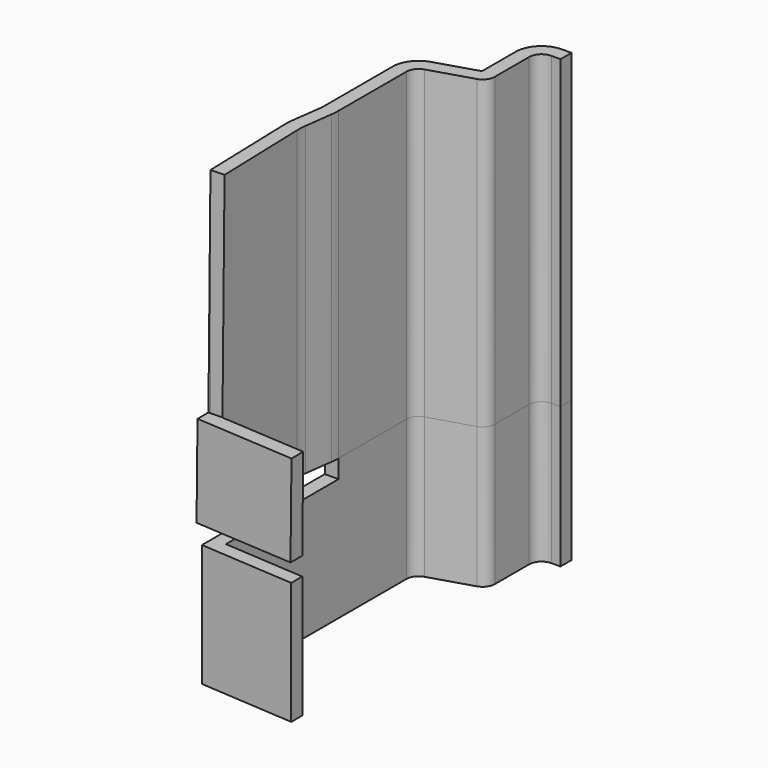
from build123d import *

# Parameters (mm, degrees)
F5_DEPTH  = 3
F6_W      = 2.25
F6_H      = 23
F7_DEPTH  = 20
F13_DEPTH = 35


with BuildPart() as f3:
    # F2 (on offset) → F3 section 0
    with BuildSketch(Plane.XY.offset(-50)):
        with BuildLine():
            Line((-3.5000038791, 20.4748884357), (-3.5000038791, 27.4999761514))
            ThreePointArc((-3.5000038791, 27.4999761514), (-2.9142174415, 28.9141897138), (-1.5000038791, 29.4999761514))
            Line((-1.5000038791, 29.4999761514), (-3.8791e-06, 29.4999761514))
            Line((-3.8791e-06, 29.4999761514), (-3.8791e-06, 31.7499761514))
            Line((-3.8791e-06, 31.7499761514), (-1.5000038791, 31.7499761514))
            ThreePointArc((-1.5000038791, 31.7499761514), (-4.5052076991, 30.5051799715), (-5.7500038791, 27.4999761514))
            Line((-5.7500038791, 27.4999761514), (-5.7500038791, 20.6592524712))
            Line((-5.7500038791, 20.6592524712), (-12.4557502015, 18.5853103096))
            ThreePointArc((-12.4557502015, 18.5853103096), (-14.6204878997, 17.0475208172), (-15.4500038791, 14.5250638671))
            Line((-15.4500038791, 14.5250638671), (-15.4500038791, 0.6637059035))
            ThreePointArc((-15.4500038791, 0.6637059035), (-15.4670184988, 0.1504446566), (-15.5179876488, -0.3605629272))
            Line((-15.5179876488, -0.3605629272), (-16.1221071747, -4.8914593715))
            ThreePointArc((-16.1221071747, -4.8914593715), (-16.2137025969, -5.8872580453), (-16.223770689, -6.887209721))
            Line((-16.223770689, -6.887209721), (-16.223770689, -22.3192218691))
            Line((-16.223770689, -22.3192218691), (-13.9748350221, -22.3192218691))
            Line((-13.9748350221, -22.3192218691), (-13.9748350221, -6.8180117005))
            ThreePointArc((-13.9748350221, -6.8180117005), (-13.9666161714, -6.0017246183), (-13.8918443982, -5.1888277417))
            Line((-13.8918443982, -5.1888277417), (-13.2877248723, -0.6579312974))
            ThreePointArc((-13.2877248723, -0.6579312974), (-13.2219582271, 0.0014333268), (-13.2000038791, 0.6637059035))
            Line((-13.2000038791, 0.6637059035), (-13.2000038791, 14.5250638671))
            ThreePointArc((-13.2000038791, 14.5250638671), (-12.8096434182, 15.7121024319), (-11.790943325, 16.4357680754))
            Line((-11.790943325, 16.4357680754), (-4.9090644333, 18.5641842274))
            ThreePointArc((-4.9090644333, 18.5641842274), (-3.89036434, 19.2878498709), (-3.5000038791, 20.4748884357))
        make_face()
    # F0 (on Top) → F3 section 1
    with BuildSketch(Plane.XY):
        with BuildLine():
            Line((-3.5, 20.4749122843), (-3.5, 27.5))
            ThreePointArc((-3.5, 27.5), (-2.9142135624, 28.9142135624), (-1.5, 29.5))
            Line((-1.5, 29.5), (0, 29.5))
            Line((0, 29.5), (0, 31.75))
            Line((0, 31.75), (-1.5, 31.75))
            ThreePointArc((-1.5, 31.75), (-4.50520382, 30.50520382), (-5.75, 27.5))
            Line((-5.75, 27.5), (-5.75, 20.6592763198))
            Line((-5.75, 20.6592763198), (-12.4557463224, 18.5853341582))
            ThreePointArc((-12.4557463224, 18.5853341582), (-14.6204840206, 17.0475446658), (-15.45, 14.5250877157))
            Line((-15.45, 14.5250877157), (-15.45, 0.6637297521))
            ThreePointArc((-15.45, 0.6637297521), (-15.4670146197, 0.1504685052), (-15.5179837697, -0.3605390786))
            Line((-15.5179837697, -0.3605390786), (-16.1221032956, -4.8914355229))
            ThreePointArc((-16.1221032956, -4.8914355229), (-16.2136987178, -5.8872341967), (-16.2237668099, -6.8871858724))
            Line((-16.2237668099, -6.8871858724), (-15.7489356669, -22.3191980205))
            Line((-15.7489356669, -22.3191980205), (-13.5, -22.25))
            Line((-13.5, -22.25), (-13.974831143, -6.8179878519))
            ThreePointArc((-13.974831143, -6.8179878519), (-13.9666122923, -6.0017007697), (-13.8918405191, -5.1888038931))
            Line((-13.8918405191, -5.1888038931), (-13.2877209932, -0.6579074488))
            ThreePointArc((-13.2877209932, -0.6579074488), (-13.221954348, 0.0014571754), (-13.2, 0.6637297521))
            Line((-13.2, 0.6637297521), (-13.2, 14.5250877157))
            ThreePointArc((-13.2, 14.5250877157), (-12.8096395391, 15.7121262805), (-11.7909394458, 16.435791924))
            Line((-11.7909394458, 16.435791924), (-4.9090605542, 18.564208076))
            ThreePointArc((-4.9090605542, 18.564208076), (-3.8903604609, 19.2878737195), (-3.5, 20.4749122843))
        make_face()
    loft()

    # F4 (on face) → F5 (join)
    with BuildSketch(Plane(origin=(0, 0, -50), x_dir=(1, 0, 0), z_dir=(0, 0, -1))):
        with BuildLine():
            Line((-13.2000038791, -0.6637059035), (-15.4500038791, -0.6637059035))
            Line((-15.4500038791, -0.6637059035), (-15.4500038791, -14.5250638671))
            ThreePointArc((-15.4500038791, -14.5250638671), (-14.6204878997, -17.0475208172), (-12.4557502015, -18.5853103096))
            Line((-12.4557502015, -18.5853103096), (-5.7500038791, -20.6592524712))
            Line((-5.7500038791, -20.6592524712), (-5.7500038791, -27.4999761514))
            ThreePointArc((-5.7500038791, -27.4999761514), (-4.5052076991, -30.5051799715), (-1.5000038791, -31.7499761514))
            Line((-1.5000038791, -31.7499761514), (-3.8791e-06, -31.7499761514))
            Line((-3.8791e-06, -31.7499761514), (-3.8791e-06, -29.4999761514))
            Line((-3.8791e-06, -29.4999761514), (-1.5000038791, -29.4999761514))
            ThreePointArc((-1.5000038791, -29.4999761514), (-2.9142174415, -28.9141897138), (-3.5000038791, -27.4999761514))
            Line((-3.5000038791, -27.4999761514), (-3.5000038791, -20.4748884357))
            ThreePointArc((-3.5000038791, -20.4748884357), (-3.89036434, -19.2878498709), (-4.9090644333, -18.5641842274))
            Line((-4.9090644333, -18.5641842274), (-11.790943325, -16.4357680754))
            ThreePointArc((-11.790943325, -16.4357680754), (-12.8096434182, -15.7121024319), (-13.2000038791, -14.5250638671))
            Line((-13.2000038791, -14.5250638671), (-13.2000038791, -0.6637059035))
        make_face()
    extrude(amount=F5_DEPTH)

    # F6 (on face) → F7 (join)
    with BuildSketch(Plane(origin=(0, 0, -53), x_dir=(1, 0, 0), z_dir=(0, 0, -1))):
        with BuildLine():
            Line((-13.2000038791, -14.5250638671), (-13.2000038791, -0.6637059035))
            Line((-13.2000038791, -0.6637059035), (-15.4500038791, -0.6637059035))
            Line((-15.4500038791, -0.6637059035), (-15.4500038791, -14.5250638671))
            ThreePointArc((-15.4500038791, -14.5250638671), (-14.6204878997, -17.0475208172), (-12.4557502015, -18.5853103096))
            Line((-12.4557502015, -18.5853103096), (-5.7500038791, -20.6592524712))
            Line((-5.7500038791, -20.6592524712), (-5.7500038791, -27.4999761514))
            ThreePointArc((-5.7500038791, -27.4999761514), (-4.5052076991, -30.5051799715), (-1.5000038791, -31.7499761514))
            Line((-1.5000038791, -31.7499761514), (-3.8791e-06, -31.7499761514))
            Line((-3.8791e-06, -31.7499761514), (-3.8791e-06, -29.4999761514))
            Line((-3.8791e-06, -29.4999761514), (-1.5000038791, -29.4999761514))
            ThreePointArc((-1.5000038791, -29.4999761514), (-2.9142174415, -28.9141897138), (-3.5000038791, -27.4999761514))
            Line((-3.5000038791, -27.4999761514), (-3.5000038791, -20.4748884357))
            ThreePointArc((-3.5000038791, -20.4748884357), (-3.89036434, -19.2878498709), (-4.9090644333, -18.5641842274))
            Line((-4.9090644333, -18.5641842274), (-11.790943325, -16.4357680754))
            ThreePointArc((-11.790943325, -16.4357680754), (-12.8096434182, -15.7121024319), (-13.2000038791, -14.5250638671))
        make_face()
        with Locations((-14.3250038791, 10.8362940965)):
            Rectangle(F6_W, F6_H)
    extrude(amount=F7_DEPTH)

    # F10: sweep along a path in F10_path
    with BuildLine(Plane(origin=(-15.4500038791, -22.3362940965, -73), x_dir=(0, 0, -1), z_dir=(0, 1, 0))) as f10_path:
        Line((0, 0), (-20, 0))
    # F8 (on face) → F10 (sweep)
    with BuildSketch(Plane(origin=(0, 0, -73), x_dir=(1, 0, 0), z_dir=(0, 0, -1))):
        Polygon((-15.4500038791, 22.3362940965), (-13.2000038791, 22.3362940965), (0, 23.2500238486), (0, 25.5000238486), (-15.4500038791, 24.4305447527), align=None)
    sweep(path=f10_path.line)

    # F11: sweep along a path in F11_path
    with BuildLine(Plane(origin=(-13.9748350221, -22.3192218691, -50), x_dir=(-0.0094962722, 0, -0.9999549094), z_dir=(-0.9999549094, 0, 0.0094962722))) as f11_path:
        add(Plane(origin=(-13.9748350221, -22.3192218691, -50), x_dir=(-0.0094962722, 0, -0.9999549094), z_dir=(-0.9999549094, 0, 0.0094962722)) * Edge.make_bspline(
            [(0, 0), (-50.0022546321, -0.0692218691)],
            knots=[0, 0, 1, 1], degree=1))
    # F9 (on face) → F11 (sweep)
    with BuildSketch(Plane(origin=(0, 0, -50), x_dir=(1, 0, 0), z_dir=(0, 0, -1))):
        Polygon((-16.223770689, 22.3192218691), (-13.9748350221, 22.3192218691), (0, 23.2500238486), (0, 25.649815511), (-16.223770689, 24.5692218691), align=None)
    sweep(path=f11_path.line)

    # F12 (on face) → F13 (cut)
    with BuildSketch(Plane.XY):
        with BuildLine():
            add(Edge.make_bspline(
                [(-13.5, -22.25), (0.4748350221, -23.1808019795)],
                knots=[0, 0, 14.0057990211, 14.0057990211], degree=1))
            Line((-13.5, -22.25), (-15.7489356669, -22.3191980205))
            add(Edge.make_bspline(
                [(-15.7489356669, -24.5), (-15.7489356669, -22.3191980205)],
                knots=[0, 0, 2.1808019795, 2.1808019795], degree=1))
            add(Edge.make_bspline(
                [(0.4748350221, -25.5805936419), (-15.7489356669, -24.5)],
                knots=[0, 0, 16.2597176479, 16.2597176479], degree=1))
            add(Edge.make_bspline(
                [(0.4748350221, -23.1808019795), (0.4748350221, -25.5805936419)],
                knots=[0, 0, 2.3997916625, 2.3997916625], degree=1))
        make_face()
        with BuildLine():
            Line((1.4795829775, -22.3191980205), (-13.5, -22.25))
            add(Edge.make_bspline(
                [(-13.5, -22.25), (0.4748350221, -23.1808019795)],
                knots=[0, 0, 14.0057990211, 14.0057990211], degree=1))
            add(Edge.make_bspline(
                [(0.4748350221, -23.1808019795), (0.4748350221, -25.5805936419)],
                knots=[0, 0, 2.3997916625, 2.3997916625], degree=1))
            add(Edge.make_bspline(
                [(0.4748350221, -25.5805936419), (-15.7489356669, -24.5)],
                knots=[0, 0, 16.2597176479, 16.2597176479], degree=1))
            add(Edge.make_bspline(
                [(-15.7489356669, -24.5), (-15.7489356669, -22.3191980205)],
                knots=[0, 0, 2.1808019795, 2.1808019795], degree=1))
            Line((-15.7489356669, -22.3191980205), (-16.8508291245, -22.3191980205))
            Line((-16.8508291245, -22.3191980205), (-16.8508291245, -25.5727563053))
            Line((-16.8508291245, -25.5727563053), (1.4795829775, -27.0518492907))
            Line((1.4795829775, -27.0518492907), (1.4795829775, -22.3191980205))
        make_face()
    extrude(amount=-F13_DEPTH, mode=Mode.SUBTRACT)


solid = f3.part
